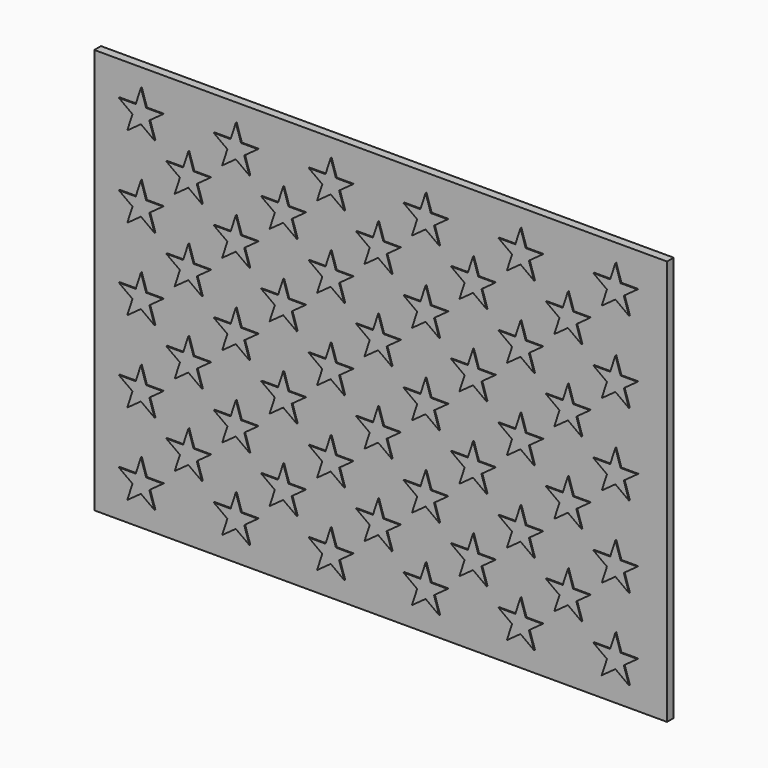
from build123d import *

# Parameters (mm, degrees)
F3_DEPTH = 0.635
F0_W     = 347.6625
F0_H     = 246.0625
F4_DEPTH = 5.08


with BuildPart() as f3:
    # F2 (on face) → F3 (new body)
    with BuildSketch(Plane.XZ):
        Polygon((-136.675926, 119.181056), (-139.830075, 128.913715), (-142.999028, 119.185866), (-153.230022, 119.193648), (-144.957548, 113.173725), (-148.126501, 103.445876), (-139.844878, 109.453207), (-131.572404, 103.433283), (-134.726554, 113.165942), (-126.444931, 119.173274), align=None)
        Polygon((-153.230022, 69.816048), (-144.957548, 63.796125), (-148.126501, 54.068276), (-139.844878, 60.075607), (-131.572404, 54.055683), (-134.726554, 63.788342), (-126.444931, 69.795674), (-136.675926, 69.803456), (-139.830075, 79.536115), (-142.999028, 69.808266), align=None)
        Polygon((-153.230022, 20.438448), (-144.957548, 14.418525), (-148.126501, 4.690676), (-139.844878, 10.698007), (-131.572404, 4.678083), (-134.726554, 14.410742), (-126.444931, 20.418074), (-136.675926, 20.425856), (-139.830075, 30.158515), (-142.999028, 20.430666), align=None)
        Polygon((-153.230022, -28.939152), (-144.957548, -34.959075), (-148.126501, -44.686924), (-139.844878, -38.679593), (-131.572404, -44.699517), (-134.726554, -34.966858), (-126.444931, -28.959526), (-136.675926, -28.951744), (-139.830075, -19.219085), (-142.999028, -28.946934), align=None)
        Polygon((-153.230022, -78.316752), (-144.957548, -84.336675), (-148.126501, -94.064524), (-139.844878, -88.057193), (-131.572404, -94.077117), (-134.726554, -84.344458), (-126.444931, -78.337126), (-136.675926, -78.329344), (-139.830075, -68.596685), (-142.999028, -78.324534), align=None)
        Polygon((-95.622822, 119.193648), (-87.350348, 113.173725), (-90.519301, 103.445876), (-82.237678, 109.453207), (-73.965204, 103.433283), (-77.119354, 113.165942), (-68.837731, 119.173274), (-79.068726, 119.181056), (-82.222875, 128.913715), (-85.391828, 119.185866), align=None)
        Polygon((-95.622822, 69.816048), (-87.350348, 63.796125), (-90.519301, 54.068276), (-82.237678, 60.075607), (-73.965204, 54.055683), (-77.119354, 63.788342), (-68.837731, 69.795674), (-79.068726, 69.803456), (-82.222875, 79.536115), (-85.391828, 69.808266), align=None)
        Polygon((-95.622822, 20.438448), (-87.350348, 14.418525), (-90.519301, 4.690676), (-82.237678, 10.698007), (-73.965204, 4.678083), (-77.119354, 14.410742), (-68.837731, 20.418074), (-79.068726, 20.425856), (-82.222875, 30.158515), (-85.391828, 20.430666), align=None)
        Polygon((-95.622822, -28.939152), (-87.350348, -34.959075), (-90.519301, -44.686924), (-82.237678, -38.679593), (-73.965204, -44.699517), (-77.119354, -34.966858), (-68.837731, -28.959526), (-79.068726, -28.951744), (-82.222875, -19.219085), (-85.391828, -28.946934), align=None)
        Polygon((-95.622822, -78.316752), (-87.350348, -84.336675), (-90.519301, -94.064524), (-82.237678, -88.057193), (-73.965204, -94.077117), (-77.119354, -84.344458), (-68.837731, -78.337126), (-79.068726, -78.329344), (-82.222875, -68.596685), (-85.391828, -78.324534), align=None)
        Polygon((-38.015622, 119.193648), (-29.743148, 113.173725), (-32.912101, 103.445876), (-24.630478, 109.453207), (-16.358004, 103.433283), (-19.512154, 113.165942), (-11.230531, 119.173274), (-21.461526, 119.181056), (-24.615675, 128.913715), (-27.784628, 119.185866), align=None)
        Polygon((-38.015622, 69.816048), (-29.743148, 63.796125), (-32.912101, 54.068276), (-24.630478, 60.075607), (-16.358004, 54.055683), (-19.512154, 63.788342), (-11.230531, 69.795674), (-21.461526, 69.803456), (-24.615675, 79.536115), (-27.784628, 69.808266), align=None)
        Polygon((-38.015622, 20.438448), (-29.743148, 14.418525), (-32.912101, 4.690676), (-24.630478, 10.698007), (-16.358004, 4.678083), (-19.512154, 14.410742), (-11.230531, 20.418074), (-21.461526, 20.425856), (-24.615675, 30.158515), (-27.784628, 20.430666), align=None)
        Polygon((-38.015622, -28.939152), (-29.743148, -34.959075), (-32.912101, -44.686924), (-24.630478, -38.679593), (-16.358004, -44.699517), (-19.512154, -34.966858), (-11.230531, -28.959526), (-21.461526, -28.951744), (-24.615675, -19.219085), (-27.784628, -28.946934), align=None)
        Polygon((-38.015622, -78.316752), (-29.743148, -84.336675), (-32.912101, -94.064524), (-24.630478, -88.057193), (-16.358004, -94.077117), (-19.512154, -84.344458), (-11.230531, -78.337126), (-21.461526, -78.329344), (-24.615675, -68.596685), (-27.784628, -78.324534), align=None)
        Polygon((19.591578, 119.193648), (27.864052, 113.173725), (24.695099, 103.445876), (32.976722, 109.453207), (41.249196, 103.433283), (38.095046, 113.165942), (46.376669, 119.173274), (36.145674, 119.181056), (32.991525, 128.913715), (29.822572, 119.185866), align=None)
        Polygon((19.591578, 69.816048), (27.864052, 63.796125), (24.695099, 54.068276), (32.976722, 60.075607), (41.249196, 54.055683), (38.095046, 63.788342), (46.376669, 69.795674), (36.145674, 69.803456), (32.991525, 79.536115), (29.822572, 69.808266), align=None)
        Polygon((19.591578, 20.438448), (27.864052, 14.418525), (24.695099, 4.690676), (32.976722, 10.698007), (41.249196, 4.678083), (38.095046, 14.410742), (46.376669, 20.418074), (36.145674, 20.425856), (32.991525, 30.158515), (29.822572, 20.430666), align=None)
        Polygon((19.591578, -28.939152), (27.864052, -34.959075), (24.695099, -44.686924), (32.976722, -38.679593), (41.249196, -44.699517), (38.095046, -34.966858), (46.376669, -28.959526), (36.145674, -28.951744), (32.991525, -19.219085), (29.822572, -28.946934), align=None)
        Polygon((19.591578, -78.316752), (27.864052, -84.336675), (24.695099, -94.064524), (32.976722, -88.057193), (41.249196, -94.077117), (38.095046, -84.344458), (46.376669, -78.337126), (36.145674, -78.329344), (32.991525, -68.596685), (29.822572, -78.324534), align=None)
        Polygon((77.198778, 119.193648), (85.471252, 113.173725), (82.302299, 103.445876), (90.583922, 109.453207), (98.856396, 103.433283), (95.702246, 113.165942), (103.983869, 119.173274), (93.752874, 119.181056), (90.598725, 128.913715), (87.429772, 119.185866), align=None)
        Polygon((77.198778, 69.816048), (85.471252, 63.796125), (82.302299, 54.068276), (90.583922, 60.075607), (98.856396, 54.055683), (95.702246, 63.788342), (103.983869, 69.795674), (93.752874, 69.803456), (90.598725, 79.536115), (87.429772, 69.808266), align=None)
        Polygon((77.198778, 20.438448), (85.471252, 14.418525), (82.302299, 4.690676), (90.583922, 10.698007), (98.856396, 4.678083), (95.702246, 14.410742), (103.983869, 20.418074), (93.752874, 20.425856), (90.598725, 30.158515), (87.429772, 20.430666), align=None)
        Polygon((77.198778, -28.939152), (85.471252, -34.959075), (82.302299, -44.686924), (90.583922, -38.679593), (98.856396, -44.699517), (95.702246, -34.966858), (103.983869, -28.959526), (93.752874, -28.951744), (90.598725, -19.219085), (87.429772, -28.946934), align=None)
        Polygon((77.198778, -78.316752), (85.471252, -84.336675), (82.302299, -94.064524), (90.583922, -88.057193), (98.856396, -94.077117), (95.702246, -84.344458), (103.983869, -78.337126), (93.752874, -78.329344), (90.598725, -68.596685), (87.429772, -78.324534), align=None)
        Polygon((134.805978, 119.193648), (143.078452, 113.173725), (139.909499, 103.445876), (148.191122, 109.453207), (156.463596, 103.433283), (153.309446, 113.165942), (161.591069, 119.173274), (151.360074, 119.181056), (148.205925, 128.913715), (145.036972, 119.185866), align=None)
        Polygon((134.805978, 69.816048), (143.078452, 63.796125), (139.909499, 54.068276), (148.191122, 60.075607), (156.463596, 54.055683), (153.309446, 63.788342), (161.591069, 69.795674), (151.360074, 69.803456), (148.205925, 79.536115), (145.036972, 69.808266), align=None)
        Polygon((134.805978, 20.438448), (143.078452, 14.418525), (139.909499, 4.690676), (148.191122, 10.698007), (156.463596, 4.678083), (153.309446, 14.410742), (161.591069, 20.418074), (151.360074, 20.425856), (148.205925, 30.158515), (145.036972, 20.430666), align=None)
        Polygon((134.805978, -28.939152), (143.078452, -34.959075), (139.909499, -44.686924), (148.191122, -38.679593), (156.463596, -44.699517), (153.309446, -34.966858), (161.591069, -28.959526), (151.360074, -28.951744), (148.205925, -19.219085), (145.036972, -28.946934), align=None)
        Polygon((134.805978, -78.316752), (143.078452, -84.336675), (139.909499, -94.064524), (148.191122, -88.057193), (156.463596, -94.077117), (153.309446, -84.344458), (161.591069, -78.337126), (151.360074, -78.329344), (148.205925, -68.596685), (145.036972, -78.324534), align=None)
        Polygon((-107.887503, 94.610929), (-111.041653, 104.343588), (-114.210605, 94.615739), (-124.4416, 94.623521), (-116.169126, 88.603597), (-119.338078, 78.875748), (-111.056456, 84.88308), (-102.783981, 78.863156), (-105.938131, 88.595815), (-97.656508, 94.603147), align=None)
        Polygon((-107.887503, 45.233329), (-111.041653, 54.965988), (-114.210605, 45.238139), (-124.4416, 45.245921), (-116.169126, 39.225997), (-119.338078, 29.498148), (-111.056456, 35.50548), (-102.783981, 29.485556), (-105.938131, 39.218215), (-97.656508, 45.225547), align=None)
        Polygon((-107.887503, -4.144271), (-111.041653, 5.588388), (-114.210605, -4.139461), (-124.4416, -4.131679), (-116.169126, -10.151603), (-119.338078, -19.879452), (-111.056456, -13.87212), (-102.783981, -19.892044), (-105.938131, -10.159385), (-97.656508, -4.152053), align=None)
        Polygon((-107.887503, -53.521871), (-111.041653, -43.789212), (-114.210605, -53.517061), (-124.4416, -53.509279), (-116.169126, -59.529203), (-119.338078, -69.257052), (-111.056456, -63.24972), (-102.783981, -69.269644), (-105.938131, -59.536985), (-97.656508, -53.529653), align=None)
        Polygon((-50.280303, 94.610929), (-53.434453, 104.343588), (-56.603405, 94.615739), (-66.8344, 94.623521), (-58.561926, 88.603597), (-61.730878, 78.875748), (-53.449256, 84.88308), (-45.176781, 78.863156), (-48.330931, 88.595815), (-40.049308, 94.603147), align=None)
        Polygon((-50.280303, 45.233329), (-53.434453, 54.965988), (-56.603405, 45.238139), (-66.8344, 45.245921), (-58.561926, 39.225997), (-61.730878, 29.498148), (-53.449256, 35.50548), (-45.176781, 29.485556), (-48.330931, 39.218215), (-40.049308, 45.225547), align=None)
        Polygon((-50.280303, -4.144271), (-53.434453, 5.588388), (-56.603405, -4.139461), (-66.8344, -4.131679), (-58.561926, -10.151603), (-61.730878, -19.879452), (-53.449256, -13.87212), (-45.176781, -19.892044), (-48.330931, -10.159385), (-40.049308, -4.152053), align=None)
        Polygon((-50.280303, -53.521871), (-53.434453, -43.789212), (-56.603405, -53.517061), (-66.8344, -53.509279), (-58.561926, -59.529203), (-61.730878, -69.257052), (-53.449256, -63.24972), (-45.176781, -69.269644), (-48.330931, -59.536985), (-40.049308, -53.529653), align=None)
        Polygon((7.326897, 94.610929), (4.172747, 104.343588), (1.003795, 94.615739), (-9.2272, 94.623521), (-0.954726, 88.603597), (-4.123678, 78.875748), (4.157944, 84.88308), (12.430419, 78.863156), (9.276269, 88.595815), (17.557892, 94.603147), align=None)
        Polygon((7.326897, 45.233329), (4.172747, 54.965988), (1.003795, 45.238139), (-9.2272, 45.245921), (-0.954726, 39.225997), (-4.123678, 29.498148), (4.157944, 35.50548), (12.430419, 29.485556), (9.276269, 39.218215), (17.557892, 45.225547), align=None)
        Polygon((7.326897, -4.144271), (4.172747, 5.588388), (1.003795, -4.139461), (-9.2272, -4.131679), (-0.954726, -10.151603), (-4.123678, -19.879452), (4.157944, -13.87212), (12.430419, -19.892044), (9.276269, -10.159385), (17.557892, -4.152053), align=None)
        Polygon((7.326897, -53.521871), (4.172747, -43.789212), (1.003795, -53.517061), (-9.2272, -53.509279), (-0.954726, -59.529203), (-4.123678, -69.257052), (4.157944, -63.24972), (12.430419, -69.269644), (9.276269, -59.536985), (17.557892, -53.529653), align=None)
        Polygon((64.934097, 94.610929), (61.779947, 104.343588), (58.610995, 94.615739), (48.38, 94.623521), (56.652474, 88.603597), (53.483522, 78.875748), (61.765144, 84.88308), (70.037619, 78.863156), (66.883469, 88.595815), (75.165092, 94.603147), align=None)
        Polygon((64.934097, 45.233329), (61.779947, 54.965988), (58.610995, 45.238139), (48.38, 45.245921), (56.652474, 39.225997), (53.483522, 29.498148), (61.765144, 35.50548), (70.037619, 29.485556), (66.883469, 39.218215), (75.165092, 45.225547), align=None)
        Polygon((64.934097, -4.144271), (61.779947, 5.588388), (58.610995, -4.139461), (48.38, -4.131679), (56.652474, -10.151603), (53.483522, -19.879452), (61.765144, -13.87212), (70.037619, -19.892044), (66.883469, -10.159385), (75.165092, -4.152053), align=None)
        Polygon((64.934097, -53.521871), (61.779947, -43.789212), (58.610995, -53.517061), (48.38, -53.509279), (56.652474, -59.529203), (53.483522, -69.257052), (61.765144, -63.24972), (70.037619, -69.269644), (66.883469, -59.536985), (75.165092, -53.529653), align=None)
        Polygon((122.541297, 94.610929), (119.387147, 104.343588), (116.218195, 94.615739), (105.9872, 94.623521), (114.259674, 88.603597), (111.090722, 78.875748), (119.372344, 84.88308), (127.644819, 78.863156), (124.490669, 88.595815), (132.772292, 94.603147), align=None)
        Polygon((122.541297, 45.233329), (119.387147, 54.965988), (116.218195, 45.238139), (105.9872, 45.245921), (114.259674, 39.225997), (111.090722, 29.498148), (119.372344, 35.50548), (127.644819, 29.485556), (124.490669, 39.218215), (132.772292, 45.225547), align=None)
        Polygon((122.541297, -4.144271), (119.387147, 5.588388), (116.218195, -4.139461), (105.9872, -4.131679), (114.259674, -10.151603), (111.090722, -19.879452), (119.372344, -13.87212), (127.644819, -19.892044), (124.490669, -10.159385), (132.772292, -4.152053), align=None)
        Polygon((122.541297, -53.521871), (119.387147, -43.789212), (116.218195, -53.517061), (105.9872, -53.509279), (114.259674, -59.529203), (111.090722, -69.257052), (119.372344, -63.24972), (127.644819, -69.269644), (124.490669, -59.536985), (132.772292, -53.529653), align=None)
    extrude(amount=F3_DEPTH)


with BuildPart() as f4:
    # F0 (on Front) → F4 (new body)
    with BuildSketch(Plane.XZ):
        with Locations((5.186863, 16.489509)):
            Rectangle(F0_W, F0_H)
    extrude(amount=-F4_DEPTH)


solid = Compound([f3.part, f4.part])
